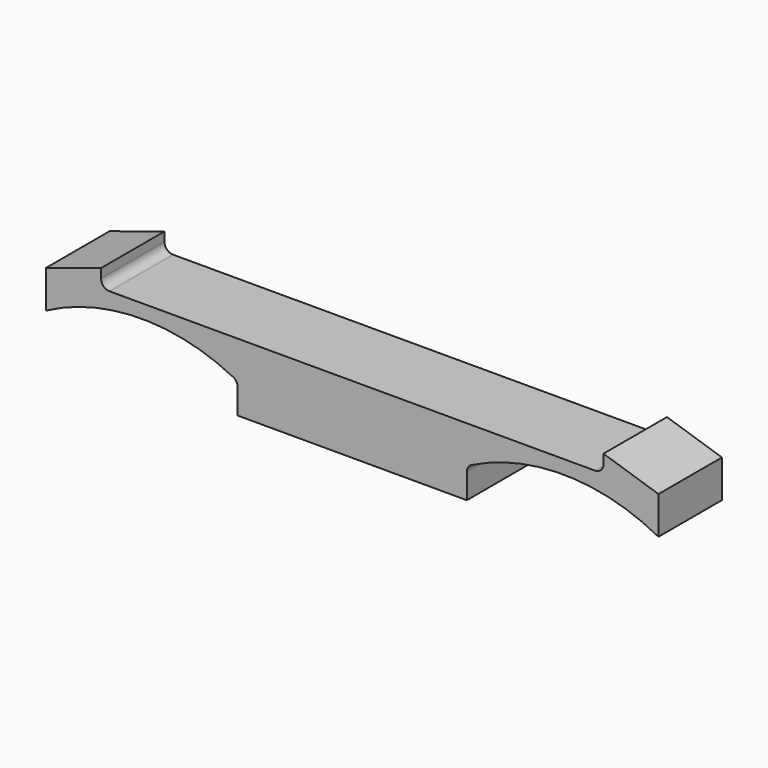
from build123d import *

# Parameters (mm, degrees)
F1_DEPTH = 12.7


with BuildPart() as f1:
    # F0 (on Front) → F1 (new body)
    with BuildSketch(Plane.XZ):
        with BuildLine():
            Line((0, -10.849522), (0, 0))
            Line((0, 0), (-38.862, 0))
            ThreePointArc((-38.862, 0), (-39.825896, 0.399259), (-40.225154, 1.363154))
            Line((-40.225154, 1.363154), (-40.225154, 2.830707))
            Line((-40.225154, 2.830707), (-49.026658, 0))
            Line((-49.026658, 0), (-49.026658, -6.0248))
            ThreePointArc((-49.026658, -6.0248), (-34.110593, -2.19715), (-19.100076, -5.635793))
            ThreePointArc((-19.100076, -5.635793), (-18.549908, -6.13839), (-18.34623, -6.855191))
            Line((-18.34623, -6.855191), (-18.34623, -10.849522))
            Line((-18.34623, -10.849522), (0, -10.849522))
        make_face()
        with BuildLine():
            Line((38.862, 0), (0, 0))
            Line((0, 0), (0, -10.849522))
            Line((0, -10.849522), (18.34623, -10.849522))
            Line((18.34623, -10.849522), (18.34623, -6.855191))
            ThreePointArc((18.34623, -6.855191), (18.549908, -6.13839), (19.100076, -5.635793))
            ThreePointArc((19.100076, -5.635793), (34.110593, -2.19715), (49.026658, -6.0248))
            Line((49.026658, -6.0248), (49.026658, 0))
            Line((49.026658, 0), (40.225154, 2.830707))
            Line((40.225154, 2.830707), (40.225154, 1.363154))
            ThreePointArc((40.225154, 1.363154), (39.825896, 0.399259), (38.862, 0))
        make_face()
    extrude(amount=F1_DEPTH)


solid = f1.part
